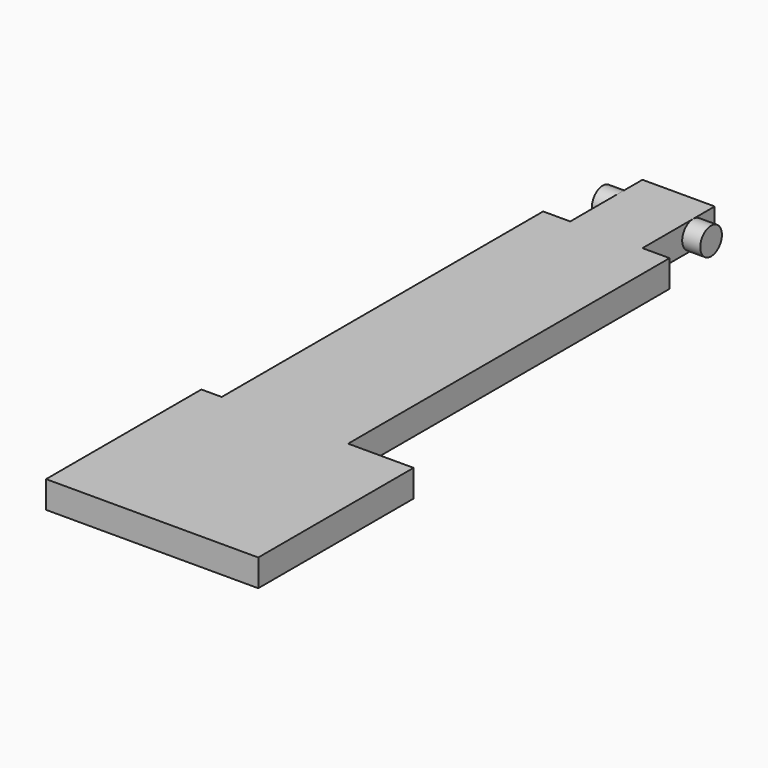
from build123d import *

# Parameters (mm, degrees)
PAD_DEPTH    = 3
SKETCH001_R  = 1.5
PAD001_DEPTH = 6
SKETCH002_R  = 2.1
POCKET_DEPTH = 2
SKETCH003_R  = 3
PAD002_DEPTH = 3
FILLET_R     = 2.75


with BuildPart() as part:
    # Sketch → Pad (new body)
    with BuildSketch(Plane.XY):
        Polygon((-9.25, -33), (14.25, -33), (14.25, -11.5), (7, -11.5), (7, 33), (4, 33), (4, 43), (-4, 43), (-4, 33), (-7, 33), (-7, -11.5), (-9.25, -11.5), align=None)
    extrude(amount=PAD_DEPTH)

    # Sketch001 → Pad001 (join, symmetric)
    with BuildSketch(Plane.YZ):
        with Locations((40, 1.5)):
            Circle(SKETCH001_R)
    extrude(amount=PAD001_DEPTH, both=True)

    # Sketch002 (on Face4 of Pad001) → Pocket (cut)
    with BuildSketch(Plane(origin=(0, 0, 0), x_dir=(1, 0, 0), z_dir=(0, 0, -1))):
        with Locations((2.5, 23)):
            Circle(SKETCH002_R)
    extrude(amount=-POCKET_DEPTH, mode=Mode.SUBTRACT)

    # Sketch003 (on Face4 of Pocket) → Pad002 (join)
    with BuildSketch(Plane(origin=(0, 0, 0), x_dir=(1, 0, 0), z_dir=(0, 0, -1))):
        with Locations((0, -23)):
            Circle(SKETCH003_R)
    extrude(amount=PAD002_DEPTH)

    # Fillet
    fillet_edges = [part.edges().sort_by_distance(p)[0] for p in [
        (-3, 23, -3),
    ]]
    fillet(fillet_edges, radius=FILLET_R)


solid = part.part
